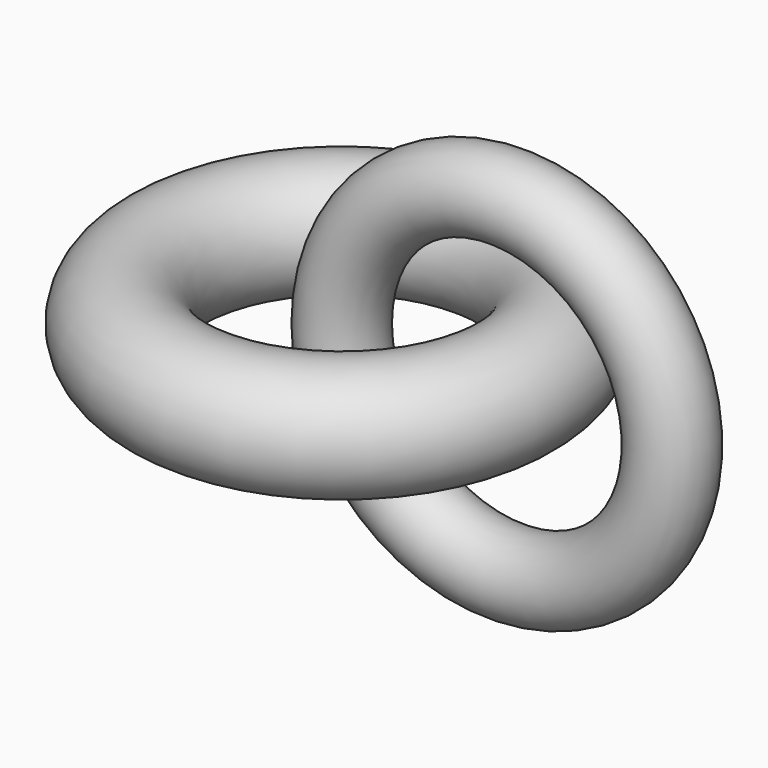
from build123d import *

# Parameters (mm, degrees)
F0_R = 7.964496
F2_R = 5.398205


with BuildPart() as f1:
    # F0 (on Front) → F1 (revolve)
    with BuildSketch(Plane.XZ):
        with Locations((-23.832766, 0)):
            Circle(F0_R)
    revolve(axis=Axis((0, 0, -0.709308), (0, 0, -1)))


with BuildPart() as f3:
    # F2 (on Top) → F3 (revolve)
    with BuildSketch(Plane.XY):
        Circle(F2_R)
    revolve(axis=Axis((22.697873, -3.404681, 0), (0, -1, 0)))


solid = Compound([f1.part, f3.part])
